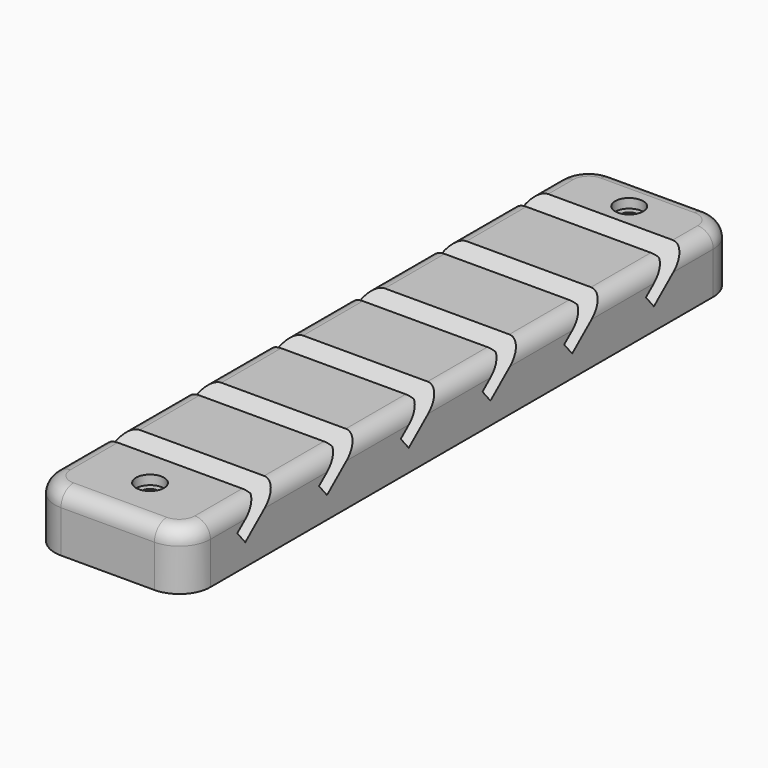
from build123d import *

# Parameters (mm, degrees)
F1_DEPTH  = 25
F2_SIZE   = 1
F3_R      = 10
F4_R      = 5
F5_R      = 2.5
F6_DEPTH  = 25
F5_R_2    = 4.5
F7_DEPTH  = 3
F8_R      = 2.5
F9_DEPTH  = 25
F8_R_2    = 4.5
F10_DEPTH = 3


with BuildPart() as f1:
    # F0 (on Right) → F1 (new body, symmetric)
    with BuildSketch(Plane.YZ):
        Polygon((-115.9307490277, -9.261659597), (-105.9307490277, -9.261659597), (105.9307490277, -9.261659597), (105.9307490277, 9.261659597), (85.9307490277, 9.261659597), (72.102765995, -2.261659597), (68.9018439966, 1.579446801), (78.1204993518, 9.261659597), (53.1204993518, 9.261659597), (39.2925163191, -2.261659597), (36.0915943207, 1.579446801), (45.3102496759, 9.261659597), (20.3102496759, 9.261659597), (6.4822666432, -2.261659597), (3.2813446448, 1.579446801), (12.5, 9.261659597), (-12.5, 9.261659597), (-26.3279830328, -2.261659597), (-29.5289050311, 1.579446801), (-20.3102496759, 9.261659597), (-45.3102496759, 9.261659597), (-59.1382327087, -2.261659597), (-62.339154707, 1.579446801), (-53.1204993518, 9.261659597), (-78.1204993518, 9.261659597), (-91.9484823846, -2.261659597), (-95.1494043829, 1.579446801), (-85.9307490277, 9.261659597), (-105.9307490277, 9.261659597), (-115.9307490277, 9.261659597), align=None)
    extrude(amount=F1_DEPTH, both=True)

    # F2
    f2_edges = [f1.edges().sort_by_distance(p)[0] for p in [
        (0, -85.930749, 9.26166),
        (0, -53.120499, 9.26166),
        (0, -20.31025, 9.26166),
        (0, 12.5, 9.26166),
        (0, 45.31025, 9.26166),
        (0, 78.120499, 9.26166),
    ]]
    chamfer(f2_edges, length=F2_SIZE)

    # F3
    f3_edges = [f1.edges().sort_by_distance(p)[0] for p in [
        (25, -115.930749, 0),
        (-25, -115.930749, 0),
        (25, 105.930749, 0),
        (-25, 105.930749, 0),
    ]]
    fillet(f3_edges, radius=F3_R)

    # F4
    f4_edges = [f1.edges().sort_by_distance(p)[0] for p in [
        (0, 105.930749, 9.26166),
        (22.071068, 103.001817, 9.26166),
        (25, 90.930749, 9.26166),
        (25, 65.120499, 9.26166),
        (25, 32.31025, 9.26166),
        (25, -0.5, 9.26166),
        (25, -33.31025, 9.26166),
        (25, -66.120499, 9.26166),
        (25, -96.430749, 9.26166),
        (22.071068, -113.001817, 9.26166),
        (0, -115.930749, 9.26166),
        (-22.071068, -113.001817, 9.26166),
        (-25, -96.430749, 9.26166),
        (-25, -66.120499, 9.26166),
        (-25, -33.31025, 9.26166),
        (-25, -0.5, 9.26166),
        (-25, 32.31025, 9.26166),
        (-25, 65.120499, 9.26166),
        (-22.071068, 103.001817, 9.26166),
    ]]
    fillet(f4_edges, radius=F4_R)

    # F5 (on face) → F6 (cut)
    with BuildSketch(Plane.XY.offset(9.261659597)):
        with Locations((0, -98.9307490277)):
            Circle(F5_R)
    extrude(amount=-F6_DEPTH, mode=Mode.SUBTRACT)

    # F5 (on face) → F7 (cut)
    with BuildSketch(Plane.XY.offset(9.261659597)):
        with Locations((0, -98.9307490277)):
            Circle(F5_R_2)
        with Locations((0, -98.9307490277)):
            Circle(F5_R, mode=Mode.SUBTRACT)
    extrude(amount=-F7_DEPTH, mode=Mode.SUBTRACT)

    # F8 (on face) → F9 (cut)
    with BuildSketch(Plane.XY.offset(9.261659597)):
        with Locations((0, 93.4307490277)):
            Circle(F8_R)
    extrude(amount=-F9_DEPTH, mode=Mode.SUBTRACT)

    # F8 (on face) → F10 (cut)
    with BuildSketch(Plane.XY.offset(9.261659597)):
        with Locations((0, 93.4307490277)):
            Circle(F8_R_2)
        with Locations((0, 93.4307490277)):
            Circle(F8_R, mode=Mode.SUBTRACT)
    extrude(amount=-F10_DEPTH, mode=Mode.SUBTRACT)


solid = f1.part
